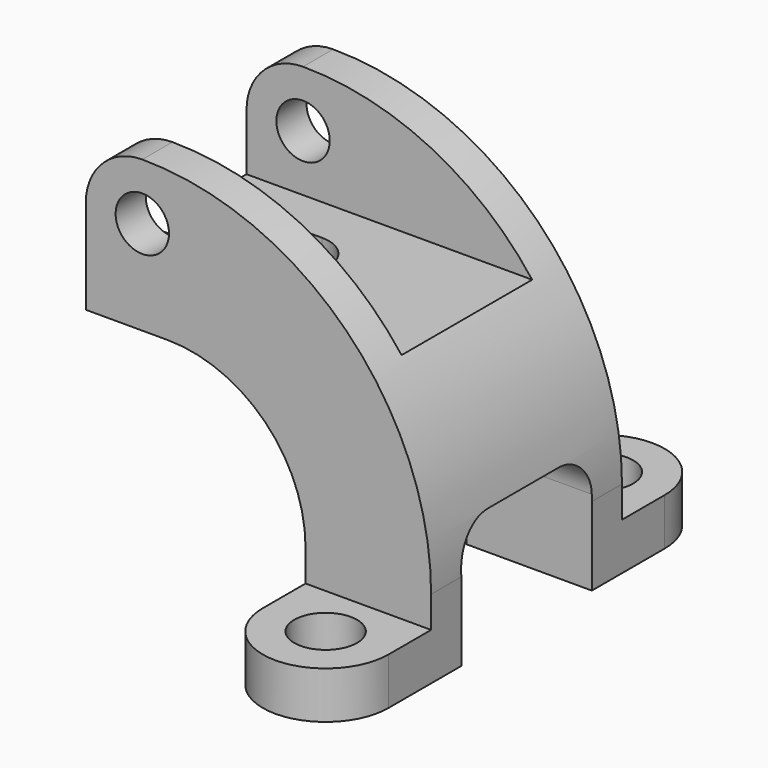
from build123d import *

# Parameters (mm, degrees)
SKETCH_R          = 8.5
PAD_DEPTH         = 38
SKETCH001_W       = 52
SKETCH001_H       = 36
POCKET_DEPTH      = 0.001
POCKET_DEPTH_BACK = 110.001
POCKET001_DEPTH   = 81.001
SKETCH003_R       = 10
PAD001_DEPTH      = 15


with BuildPart() as part:
    # Sketch (on XZ_Plane of Origin) → Pad (new body, symmetric)
    with BuildSketch(Plane.XZ):
        with BuildLine():
            Line((70, 0), (110, 0))
            Line((110, 0), (110, 25))
            ThreePointArc((110, 25), (83.053824, 90.053824), (18, 117))
            ThreePointArc((18, 117), (5.272078, 111.727922), (0, 99))
            Line((0, 99), (0, 69))
            Line((0, 69), (26, 69))
            ThreePointArc((70, 25), (57.112698, 56.112698), (26, 69))
            Line((70, 25), (70, 0))
        make_face()
        with Locations((18, 99)):
            Circle(SKETCH_R, mode=Mode.SUBTRACT)
    extrude(amount=PAD_DEPTH, both=True)

    # Sketch001 (on YZ_Plane of Origin) → Pocket (cut, two sides)
    with BuildSketch(Plane.YZ) as pocket_sk:
        with BuildLine():
            Line((-26, 0), (-26, 27))
            ThreePointArc((-14, 39), (-22.485281, 35.485281), (-26, 27))
            Line((-14, 39), (14, 39))
            ThreePointArc((26, 27), (22.485281, 35.485281), (14, 39))
            Line((26, 27), (26, 0))
            Line((26, 0), (-26, 0))
        make_face()
        with Locations((0, 99)):
            Rectangle(SKETCH001_W, SKETCH001_H)
    extrude(amount=-POCKET_DEPTH, mode=Mode.SUBTRACT)
    extrude(pocket_sk.sketch, amount=POCKET_DEPTH_BACK, mode=Mode.SUBTRACT)

    # Sketch002 (on Face14 of Pocket) → Pocket001 (cut, through all)
    with BuildSketch(Plane.XY.offset(81)):
        with BuildLine():
            ThreePointArc((0, 11), (-11, 0), (0, -11))
            Line((0, -11), (36, -11))
            ThreePointArc((36, -11), (47, 0), (36, 11))
            Line((0, 11), (36, 11))
        make_face()
    extrude(amount=-POCKET001_DEPTH, mode=Mode.SUBTRACT)

    # Sketch003 (on XY_Plane of Origin) → Pad001 (join)
    with BuildSketch(Plane.XY):
        with BuildLine():
            Line((70, 38), (70, 55))
            ThreePointArc((70, 55), (90, 75), (110, 55))
            Line((110, 55), (110, 38))
            Line((110, 38), (70, 38))
        make_face()
        with Locations((90, 55)):
            Circle(SKETCH003_R, mode=Mode.SUBTRACT)
    pad001 = extrude(amount=PAD001_DEPTH)

    # Mirrored: Pad001 across XZ
    add(pad001.mirror(Plane.XZ))


solid = part.part
